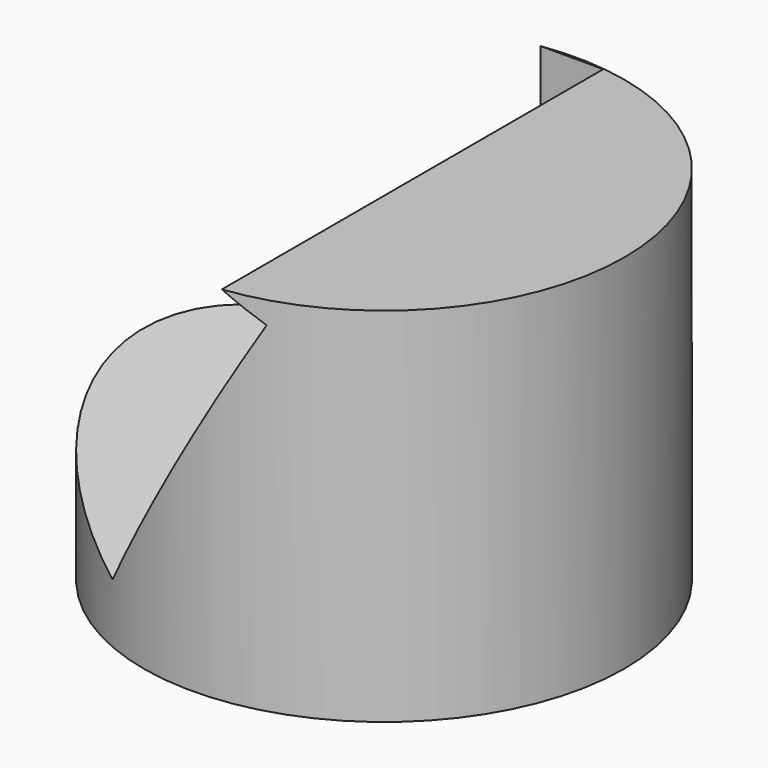
from build123d import *

# Parameters (mm, degrees)
F3_W     = 26.8972711638
F3_H     = 17.8959585394
F4_DEPTH = 25


with BuildPart() as f1:
    # F0 (on Front) → F1 (revolve)
    with BuildSketch(Plane.XZ):
        Polygon((13.28, 28.0923092628), (0, 28.0923092628), (0, 20.425097688), (13.28, 12.7578861131), align=None)
        Polygon((13.28, 12.7578861131), (0, 20.425097688), (0, 8.0923092628), (13.28, 8.0923092628), align=None)
    revolve(axis=Axis((0, 0, 18.0923092628), (0, 0, -1)))

    # F3 (on line) → F4 (cut)
    with BuildSketch(Plane(origin=(-8.8443267363, 0, 5.106274422), x_dir=(0, 1, 0), z_dir=(0.8660254038, 0, -0.5))):
        with Locations((-0.3009052016, 16.1754032597)):
            Rectangle(F3_W, F3_H)
    extrude(amount=-F4_DEPTH, mode=Mode.SUBTRACT)


solid = f1.part
